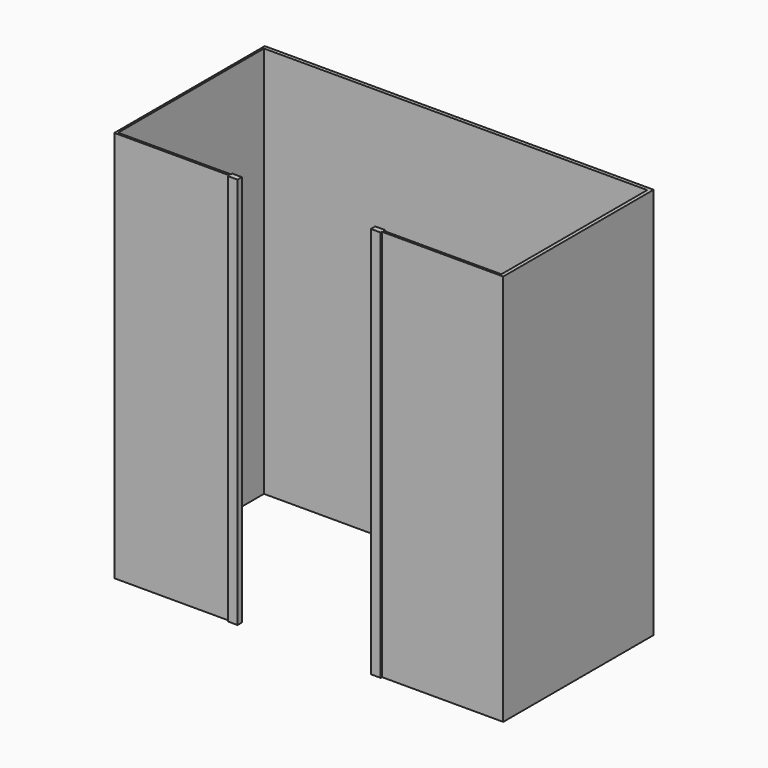
from build123d import *

# Parameters (mm, degrees)
F1_DEPTH = 2000


with BuildPart() as f1:
    # F0 (on Top) → F1 (new body)
    with BuildSketch(Plane.XY):
        Polygon((176.931167, -302.660067), (-398.068833, -302.660067), (-398.068833, 627.339933), (1556.931167, 627.339933), (1556.931167, -302.660335), (956.931167, -302.660335), (956.931167, -294.060309), (906.931167, -294.060309), (906.931167, -322.17142), (956.931167, -322.17142), (956.931167, -313.571393), (1575.077987, -313.571393), (1575.077987, 645.551801), (-408.552521, 645.551801), (-408.552521, -313.571393), (176.931167, -313.571393), (176.931167, -322.17142), (226.931167, -322.17142), (226.931167, -294.060041), (176.931167, -294.060041), align=None)
    extrude(amount=F1_DEPTH)


solid = f1.part
